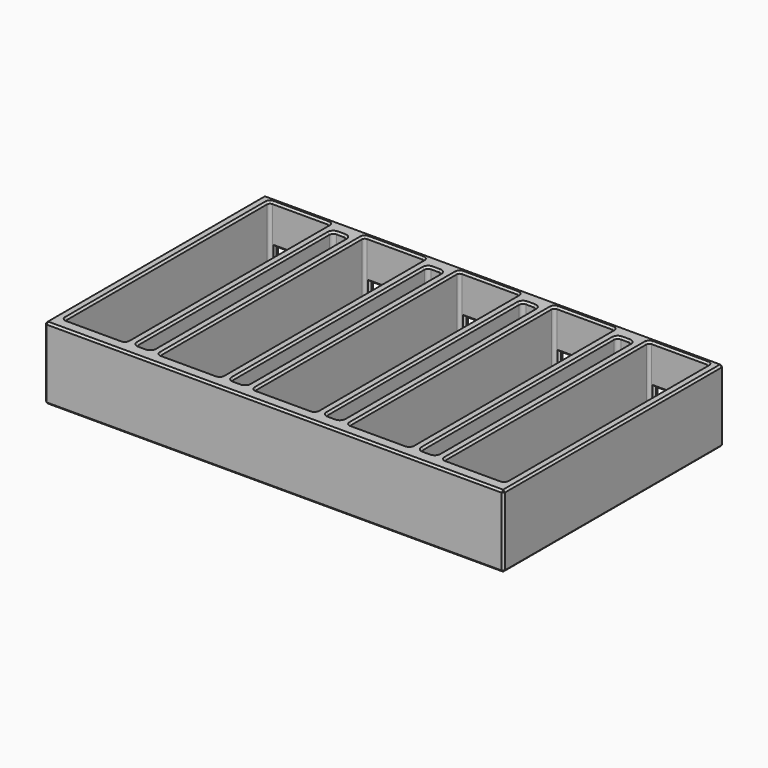
from build123d import *

# Parameters (mm, degrees)
F0_W      = 242
F0_H      = 145
F1_DEPTH  = 38.1
F2_W      = 32
F2_H      = 135
F3_DEPTH  = 31.75
F4_W      = 26
F4_H      = 11
F5_DEPTH  = 3
F7_DEPTH  = 38.101
F8_R      = 1.5
F10_DEPTH = 6.351
F11_SIZE  = 1


with BuildPart() as f1:
    # F0 (on Top) → F1 (new body)
    with BuildSketch(Plane.XY):
        Rectangle(F0_W, F0_H)
    extrude(amount=F1_DEPTH)

    # F2 (on face) → F3 (cut)
    with BuildSketch(Plane.XY.offset(38.1)):
        with Locations((-100, 2)):
            Rectangle(F2_W, F2_H)
        with Locations((-50, 2)):
            Rectangle(F2_W, F2_H)
        with Locations((0, 2)):
            Rectangle(F2_W, F2_H)
        with Locations((50, 2)):
            Rectangle(F2_W, F2_H)
        with Locations((100, 2)):
            Rectangle(F2_W, F2_H)
    extrude(amount=-F3_DEPTH, mode=Mode.SUBTRACT)

    # F4 (on face) → F5 (cut, through all)
    with BuildSketch(Plane(origin=(0, 72.5, 0), x_dir=(-1, 0, 0), z_dir=(0, 1, 0))):
        with Locations((100, 11.85)):
            Rectangle(F4_W, F4_H)
        with Locations((50, 11.85)):
            Rectangle(F4_W, F4_H)
        with Locations((0, 11.85)):
            Rectangle(F4_W, F4_H)
        with Locations((-50, 11.85)):
            Rectangle(F4_W, F4_H)
        with Locations((-100, 11.85)):
            Rectangle(F4_W, F4_H)
    extrude(amount=-F5_DEPTH, mode=Mode.SUBTRACT)

    # F6 (on face) → F7 (cut, through all)
    with BuildSketch(Plane.XY.offset(38.1)):
        with BuildLine():
            Line((-73, 64.85), (-77, 64.85))
            ThreePointArc((-77, 64.85), (-78.4142135624, 64.2642135624), (-79, 62.85))
            Line((-79, 62.85), (-79, -62.85))
            ThreePointArc((-79, -62.85), (-78.4142135624, -64.2642135624), (-77, -64.85))
            Line((-77, -64.85), (-73, -64.85))
            ThreePointArc((-73, -64.85), (-71.5857864376, -64.2642135624), (-71, -62.85))
            Line((-71, -62.85), (-71, 62.85))
            ThreePointArc((-71, 62.85), (-71.5857864376, 64.2642135624), (-73, 64.85))
        make_face()
        with BuildLine():
            ThreePointArc((23, 64.85), (21.5857864376, 64.2642135624), (21, 62.85))
            Line((21, 62.85), (21, -62.85))
            ThreePointArc((21, -62.85), (21.5857864376, -64.2642135624), (23, -64.85))
            Line((23, -64.85), (27, -64.85))
            ThreePointArc((27, -64.85), (28.4142135624, -64.2642135624), (29, -62.85))
            Line((29, -62.85), (29, 62.85))
            ThreePointArc((29, 62.85), (28.4142135624, 64.2642135624), (27, 64.85))
            Line((27, 64.85), (23, 64.85))
        make_face()
        with BuildLine():
            ThreePointArc((73, 64.85), (71.5857864376, 64.2642135624), (71, 62.85))
            Line((71, 62.85), (71, -62.85))
            ThreePointArc((71, -62.85), (71.5857864376, -64.2642135624), (73, -64.85))
            Line((73, -64.85), (77, -64.85))
            ThreePointArc((77, -64.85), (78.4142135624, -64.2642135624), (79, -62.85))
            Line((79, -62.85), (79, 62.85))
            ThreePointArc((79, 62.85), (78.4142135624, 64.2642135624), (77, 64.85))
            Line((77, 64.85), (73, 64.85))
        make_face()
        with BuildLine():
            ThreePointArc((-27, 64.85), (-28.4142135624, 64.2642135624), (-29, 62.85))
            Line((-29, 62.85), (-29, -62.85))
            ThreePointArc((-29, -62.85), (-28.4142135624, -64.2642135624), (-27, -64.85))
            Line((-27, -64.85), (-23, -64.85))
            ThreePointArc((-23, -64.85), (-21.5857864376, -64.2642135624), (-21, -62.85))
            Line((-21, -62.85), (-21, 62.85))
            ThreePointArc((-21, 62.85), (-21.5857864376, 64.2642135624), (-23, 64.85))
            Line((-23, 64.85), (-27, 64.85))
        make_face()
    extrude(amount=-F7_DEPTH, mode=Mode.SUBTRACT)

    # F8
    f8_edges = [f1.edges().sort_by_distance(p)[0] for p in [
        (-116, 69.5, 22.225),
        (-84, 69.5, 22.225),
        (-116, -65.5, 22.225),
        (-84, -65.5, 22.225),
        (-66, -65.5, 22.225),
        (-66, 69.5, 22.225),
        (-34, 69.5, 22.225),
        (-34, -65.5, 22.225),
        (-16, 69.5, 22.225),
        (16, 69.5, 22.225),
        (-16, -65.5, 22.225),
        (16, -65.5, 22.225),
        (34, 69.5, 22.225),
        (34, -65.5, 22.225),
        (66, -65.5, 22.225),
        (66, 69.5, 22.225),
        (84, 69.5, 22.225),
        (116, 69.5, 22.225),
        (84, -65.5, 22.225),
        (116, -65.5, 22.225),
    ]]
    fillet(f8_edges, radius=F8_R)

    # F9 (on face) → F10 (cut, through all)
    with BuildSketch(Plane.XY.offset(6.35)):
        with BuildLine():
            Line((-105, 54.5), (-109, 54.5))
            ThreePointArc((-109, 54.5), (-110.4142135624, 53.9142135624), (-111, 52.5))
            Line((-111, 52.5), (-111, -48.5))
            ThreePointArc((-111, -48.5), (-110.4142135624, -49.9142135624), (-109, -50.5))
            Line((-109, -50.5), (-105, -50.5))
            ThreePointArc((-105, -50.5), (-103.5857864376, -49.9142135624), (-103, -48.5))
            Line((-103, -48.5), (-103, 52.5))
            ThreePointArc((-103, 52.5), (-103.5857864376, 53.9142135624), (-105, 54.5))
        make_face()
        with BuildLine():
            Line((-91, 54.5), (-95, 54.5))
            ThreePointArc((-95, 54.5), (-96.4142135624, 53.9142135624), (-97, 52.5))
            Line((-97, 52.5), (-97, -48.5))
            ThreePointArc((-97, -48.5), (-96.4142135624, -49.9142135624), (-95, -50.5))
            Line((-95, -50.5), (-91, -50.5))
            ThreePointArc((-91, -50.5), (-89.5857864376, -49.9142135624), (-89, -48.5))
            Line((-89, -48.5), (-89, 52.5))
            ThreePointArc((-89, 52.5), (-89.5857864376, 53.9142135624), (-91, 54.5))
        make_face()
        with BuildLine():
            ThreePointArc((-45, 54.5), (-46.4142135624, 53.9142135624), (-47, 52.5))
            Line((-47, 52.5), (-47, -48.5))
            ThreePointArc((-47, -48.5), (-46.4142135624, -49.9142135624), (-45, -50.5))
            Line((-45, -50.5), (-41, -50.5))
            ThreePointArc((-41, -50.5), (-39.5857864376, -49.9142135624), (-39, -48.5))
            Line((-39, -48.5), (-39, 52.5))
            ThreePointArc((-39, 52.5), (-39.5857864376, 53.9142135624), (-41, 54.5))
            Line((-41, 54.5), (-45, 54.5))
        make_face()
        with BuildLine():
            Line((-53, -48.5), (-53, 52.5))
            ThreePointArc((-53, 52.5), (-53.5857864376, 53.9142135624), (-55, 54.5))
            Line((-55, 54.5), (-59, 54.5))
            ThreePointArc((-59, 54.5), (-60.4142135624, 53.9142135624), (-61, 52.5))
            Line((-61, 52.5), (-61, -48.5))
            ThreePointArc((-61, -48.5), (-60.4142135624, -49.9142135624), (-59, -50.5))
            Line((-59, -50.5), (-55, -50.5))
            ThreePointArc((-55, -50.5), (-53.5857864376, -49.9142135624), (-53, -48.5))
        make_face()
        with BuildLine():
            ThreePointArc((5, 54.5), (3.5857864376, 53.9142135624), (3, 52.5))
            Line((3, 52.5), (3, -48.5))
            ThreePointArc((3, -48.5), (3.5857864376, -49.9142135624), (5, -50.5))
            Line((5, -50.5), (9, -50.5))
            ThreePointArc((9, -50.5), (10.4142135624, -49.9142135624), (11, -48.5))
            Line((11, -48.5), (11, 52.5))
            ThreePointArc((11, 52.5), (10.4142135624, 53.9142135624), (9, 54.5))
            Line((9, 54.5), (5, 54.5))
        make_face()
        with BuildLine():
            Line((-3, -48.5), (-3, 52.5))
            ThreePointArc((-3, 52.5), (-3.5857864376, 53.9142135624), (-5, 54.5))
            Line((-5, 54.5), (-9, 54.5))
            ThreePointArc((-9, 54.5), (-10.4142135624, 53.9142135624), (-11, 52.5))
            Line((-11, 52.5), (-11, -48.5))
            ThreePointArc((-11, -48.5), (-10.4142135624, -49.9142135624), (-9, -50.5))
            Line((-9, -50.5), (-5, -50.5))
            ThreePointArc((-5, -50.5), (-3.5857864376, -49.9142135624), (-3, -48.5))
        make_face()
        with BuildLine():
            ThreePointArc((55, 54.5), (53.5857864376, 53.9142135624), (53, 52.5))
            Line((53, 52.5), (53, -48.5))
            ThreePointArc((53, -48.5), (53.5857864376, -49.9142135624), (55, -50.5))
            Line((55, -50.5), (59, -50.5))
            ThreePointArc((59, -50.5), (60.4142135624, -49.9142135624), (61, -48.5))
            Line((61, -48.5), (61, 52.5))
            ThreePointArc((61, 52.5), (60.4142135624, 53.9142135624), (59, 54.5))
            Line((59, 54.5), (55, 54.5))
        make_face()
        with BuildLine():
            Line((47, -48.5), (47, 52.5))
            ThreePointArc((47, 52.5), (46.4142135624, 53.9142135624), (45, 54.5))
            Line((45, 54.5), (41, 54.5))
            ThreePointArc((41, 54.5), (39.5857864376, 53.9142135624), (39, 52.5))
            Line((39, 52.5), (39, -48.5))
            ThreePointArc((39, -48.5), (39.5857864376, -49.9142135624), (41, -50.5))
            Line((41, -50.5), (45, -50.5))
            ThreePointArc((45, -50.5), (46.4142135624, -49.9142135624), (47, -48.5))
        make_face()
        with BuildLine():
            ThreePointArc((105, 54.5), (103.5857864376, 53.9142135624), (103, 52.5))
            Line((103, 52.5), (103, -48.5))
            ThreePointArc((103, -48.5), (103.5857864376, -49.9142135624), (105, -50.5))
            Line((105, -50.5), (109, -50.5))
            ThreePointArc((109, -50.5), (110.4142135624, -49.9142135624), (111, -48.5))
            Line((111, -48.5), (111, 52.5))
            ThreePointArc((111, 52.5), (110.4142135624, 53.9142135624), (109, 54.5))
            Line((109, 54.5), (105, 54.5))
        make_face()
        with BuildLine():
            Line((97, -48.5), (97, 52.5))
            ThreePointArc((97, 52.5), (96.4142135624, 53.9142135624), (95, 54.5))
            Line((95, 54.5), (91, 54.5))
            ThreePointArc((91, 54.5), (89.5857864376, 53.9142135624), (89, 52.5))
            Line((89, 52.5), (89, -48.5))
            ThreePointArc((89, -48.5), (89.5857864376, -49.9142135624), (91, -50.5))
            Line((91, -50.5), (95, -50.5))
            ThreePointArc((95, -50.5), (96.4142135624, -49.9142135624), (97, -48.5))
        make_face()
    extrude(amount=-F10_DEPTH, mode=Mode.SUBTRACT)

    # F11
    f11_edges = [f1.edges().sort_by_distance(p)[0] for p in [
        (-100, 69.5, 38.1),
        (-84, 2, 38.1),
        (-116, 2, 38.1),
        (-100, -65.5, 38.1),
        (-84.43934, 69.06066, 38.1),
        (-115.56066, 69.06066, 38.1),
        (-84.43934, -65.06066, 38.1),
        (-115.56066, -65.06066, 38.1),
        (0, -72.5, 38.1),
        (-121, 0, 38.1),
        (121, 0, 38.1),
        (0, 72.5, 38.1),
        (-75, 64.85, 38.1),
        (-78.414214, 64.264214, 38.1),
        (-79, 0, 38.1),
        (-78.414214, -64.264214, 38.1),
        (-75, -64.85, 38.1),
        (-71.585786, -64.264214, 38.1),
        (-71, 0, 38.1),
        (-71.585786, 64.264214, 38.1),
        (-21.585786, 64.264214, 38.1),
        (-25, 64.85, 38.1),
        (-28.414214, 64.264214, 38.1),
        (-29, 0, 38.1),
        (-28.414214, -64.264214, 38.1),
        (-25, -64.85, 38.1),
        (-21.585786, -64.264214, 38.1),
        (-21, 0, 38.1),
        (28.414214, 64.264214, 38.1),
        (25, 64.85, 38.1),
        (21.585786, 64.264214, 38.1),
        (21, 0, 38.1),
        (21.585786, -64.264214, 38.1),
        (25, -64.85, 38.1),
        (28.414214, -64.264214, 38.1),
        (29, 0, 38.1),
        (71.585786, 64.264214, 38.1),
        (71, 0, 38.1),
        (71.585786, -64.264214, 38.1),
        (75, -64.85, 38.1),
        (78.414214, -64.264214, 38.1),
        (79, 0, 38.1),
        (78.414214, 64.264214, 38.1),
        (75, 64.85, 38.1),
        (-34, 2, 38.1),
        (-34.43934, -65.06066, 38.1),
        (-34.43934, 69.06066, 38.1),
        (-50, -65.5, 38.1),
        (-50, 69.5, 38.1),
        (-65.56066, -65.06066, 38.1),
        (-65.56066, 69.06066, 38.1),
        (-66, 2, 38.1),
        (16, 2, 38.1),
        (15.56066, -65.06066, 38.1),
        (15.56066, 69.06066, 38.1),
        (0, -65.5, 38.1),
        (0, 69.5, 38.1),
        (-15.56066, -65.06066, 38.1),
        (-15.56066, 69.06066, 38.1),
        (-16, 2, 38.1),
        (66, 2, 38.1),
        (65.56066, -65.06066, 38.1),
        (65.56066, 69.06066, 38.1),
        (50, -65.5, 38.1),
        (50, 69.5, 38.1),
        (34.43934, -65.06066, 38.1),
        (34.43934, 69.06066, 38.1),
        (34, 2, 38.1),
        (116, 2, 38.1),
        (115.56066, -65.06066, 38.1),
        (115.56066, 69.06066, 38.1),
        (100, -65.5, 38.1),
        (100, 69.5, 38.1),
        (84.43934, -65.06066, 38.1),
        (84.43934, 69.06066, 38.1),
        (84, 2, 38.1),
        (-121, -72.5, 19.05),
        (121, -72.5, 19.05),
        (0, -72.5, 0),
        (121, 72.5, 19.05),
        (0, 72.5, 0),
        (-121, 72.5, 19.05),
        (87, 72.5, 11.85),
        (100, 72.5, 6.35),
        (113, 72.5, 11.85),
        (100, 72.5, 17.35),
        (37, 72.5, 11.85),
        (50, 72.5, 6.35),
        (63, 72.5, 11.85),
        (50, 72.5, 17.35),
        (-13, 72.5, 11.85),
        (0, 72.5, 6.35),
        (13, 72.5, 11.85),
        (0, 72.5, 17.35),
        (-63, 72.5, 11.85),
        (-50, 72.5, 6.35),
        (-37, 72.5, 11.85),
        (-50, 72.5, 17.35),
        (-100, 72.5, 17.35),
        (-113, 72.5, 11.85),
        (-100, 72.5, 6.35),
        (-87, 72.5, 11.85),
        (121, 0, 0),
        (-121, 0, 0),
        (-107, 54.5, 0),
        (-110.414214, 53.914214, 0),
        (-111, 2, 0),
        (-110.414214, -49.914214, 0),
        (-107, -50.5, 0),
        (-103.585786, -49.914214, 0),
        (-103, 2, 0),
        (-103.585786, 53.914214, 0),
        (-93, 54.5, 0),
        (-96.414214, 53.914214, 0),
        (-97, 2, 0),
        (-96.414214, -49.914214, 0),
        (-93, -50.5, 0),
        (-89.585786, -49.914214, 0),
        (-89, 2, 0),
        (-89.585786, 53.914214, 0),
        (-75, 64.85, 0),
        (-71.585786, 64.264214, 0),
        (-78.414214, 64.264214, 0),
        (-71, 0, 0),
        (-79, 0, 0),
        (-71.585786, -64.264214, 0),
        (-78.414214, -64.264214, 0),
        (-75, -64.85, 0),
        (-53, 2, 0),
        (-53.585786, 53.914214, 0),
        (-57, 54.5, 0),
        (-60.414214, 53.914214, 0),
        (-61, 2, 0),
        (-60.414214, -49.914214, 0),
        (-57, -50.5, 0),
        (-53.585786, -49.914214, 0),
        (-46.414214, 53.914214, 0),
        (-47, 2, 0),
        (-46.414214, -49.914214, 0),
        (-43, -50.5, 0),
        (-39.585786, -49.914214, 0),
        (-39, 2, 0),
        (-39.585786, 53.914214, 0),
        (-43, 54.5, 0),
        (-21.585786, 64.264214, 0),
        (-21, 0, 0),
        (-25, 64.85, 0),
        (-21.585786, -64.264214, 0),
        (-28.414214, 64.264214, 0),
        (-25, -64.85, 0),
        (-29, 0, 0),
        (-28.414214, -64.264214, 0),
        (-3, 2, 0),
        (-3.585786, 53.914214, 0),
        (-7, 54.5, 0),
        (-10.414214, 53.914214, 0),
        (-11, 2, 0),
        (-10.414214, -49.914214, 0),
        (-7, -50.5, 0),
        (-3.585786, -49.914214, 0),
        (10.414214, 53.914214, 0),
        (7, 54.5, 0),
        (3.585786, 53.914214, 0),
        (3, 2, 0),
        (3.585786, -49.914214, 0),
        (7, -50.5, 0),
        (10.414214, -49.914214, 0),
        (11, 2, 0),
        (28.414214, 64.264214, 0),
        (29, 0, 0),
        (25, 64.85, 0),
        (28.414214, -64.264214, 0),
        (21.585786, 64.264214, 0),
        (25, -64.85, 0),
        (21, 0, 0),
        (21.585786, -64.264214, 0),
        (47, 2, 0),
        (46.414214, 53.914214, 0),
        (43, 54.5, 0),
        (39.585786, 53.914214, 0),
        (39, 2, 0),
        (39.585786, -49.914214, 0),
        (43, -50.5, 0),
        (46.414214, -49.914214, 0),
        (53.585786, 53.914214, 0),
        (53, 2, 0),
        (53.585786, -49.914214, 0),
        (57, -50.5, 0),
        (60.414214, -49.914214, 0),
        (61, 2, 0),
        (60.414214, 53.914214, 0),
        (57, 54.5, 0),
        (71.585786, 64.264214, 0),
        (75, 64.85, 0),
        (71, 0, 0),
        (78.414214, 64.264214, 0),
        (71.585786, -64.264214, 0),
        (79, 0, 0),
        (75, -64.85, 0),
        (78.414214, -64.264214, 0),
        (97, 2, 0),
        (96.414214, 53.914214, 0),
        (93, 54.5, 0),
        (89.585786, 53.914214, 0),
        (89, 2, 0),
        (89.585786, -49.914214, 0),
        (93, -50.5, 0),
        (96.414214, -49.914214, 0),
        (103.585786, 53.914214, 0),
        (103, 2, 0),
        (103.585786, -49.914214, 0),
        (107, -50.5, 0),
        (110.414214, -49.914214, 0),
        (111, 2, 0),
        (110.414214, 53.914214, 0),
        (107, 54.5, 0),
        (-86.25, 69.5, 6.35),
        (-84.43934, 69.06066, 6.35),
        (-87, 71, 6.35),
        (-84, 2, 6.35),
        (-84.43934, -65.06066, 6.35),
        (-113, 71, 6.35),
        (-100, -65.5, 6.35),
        (-113.75, 69.5, 6.35),
        (-115.56066, -65.06066, 6.35),
        (-115.56066, 69.06066, 6.35),
        (-116, 2, 6.35),
        (-89.585786, 53.914214, 6.35),
        (-89, 2, 6.35),
        (-89.585786, -49.914214, 6.35),
        (-93, -50.5, 6.35),
        (-96.414214, -49.914214, 6.35),
        (-97, 2, 6.35),
        (-96.414214, 53.914214, 6.35),
        (-93, 54.5, 6.35),
        (-103.585786, 53.914214, 6.35),
        (-103, 2, 6.35),
        (-103.585786, -49.914214, 6.35),
        (-107, -50.5, 6.35),
        (-110.414214, -49.914214, 6.35),
        (-111, 2, 6.35),
        (-110.414214, 53.914214, 6.35),
        (-107, 54.5, 6.35),
        (-36.25, 69.5, 6.35),
        (-34.43934, 69.06066, 6.35),
        (-37, 71, 6.35),
        (-34, 2, 6.35),
        (-34.43934, -65.06066, 6.35),
        (-63, 71, 6.35),
        (-50, -65.5, 6.35),
        (-63.75, 69.5, 6.35),
        (-65.56066, -65.06066, 6.35),
        (-65.56066, 69.06066, 6.35),
        (-66, 2, 6.35),
        (-43, 54.5, 6.35),
        (-39.585786, 53.914214, 6.35),
        (-39, 2, 6.35),
        (-39.585786, -49.914214, 6.35),
        (-43, -50.5, 6.35),
        (-46.414214, -49.914214, 6.35),
        (-47, 2, 6.35),
        (-46.414214, 53.914214, 6.35),
        (-53.585786, -49.914214, 6.35),
        (-57, -50.5, 6.35),
        (-60.414214, -49.914214, 6.35),
        (-61, 2, 6.35),
        (-60.414214, 53.914214, 6.35),
        (-57, 54.5, 6.35),
        (-53.585786, 53.914214, 6.35),
        (-53, 2, 6.35),
        (13.75, 69.5, 6.35),
        (15.56066, 69.06066, 6.35),
        (13, 71, 6.35),
        (16, 2, 6.35),
        (15.56066, -65.06066, 6.35),
        (-13, 71, 6.35),
        (0, -65.5, 6.35),
        (-13.75, 69.5, 6.35),
        (-15.56066, -65.06066, 6.35),
        (-15.56066, 69.06066, 6.35),
        (-16, 2, 6.35),
        (11, 2, 6.35),
        (10.414214, -49.914214, 6.35),
        (7, -50.5, 6.35),
        (3.585786, -49.914214, 6.35),
        (3, 2, 6.35),
        (3.585786, 53.914214, 6.35),
        (7, 54.5, 6.35),
        (10.414214, 53.914214, 6.35),
        (-3.585786, -49.914214, 6.35),
        (-7, -50.5, 6.35),
        (-10.414214, -49.914214, 6.35),
        (-11, 2, 6.35),
        (-10.414214, 53.914214, 6.35),
        (-7, 54.5, 6.35),
        (-3.585786, 53.914214, 6.35),
        (-3, 2, 6.35),
        (63.75, 69.5, 6.35),
        (65.56066, 69.06066, 6.35),
        (63, 71, 6.35),
        (66, 2, 6.35),
        (65.56066, -65.06066, 6.35),
        (37, 71, 6.35),
        (50, -65.5, 6.35),
        (36.25, 69.5, 6.35),
        (34.43934, -65.06066, 6.35),
        (34.43934, 69.06066, 6.35),
        (34, 2, 6.35),
        (57, 54.5, 6.35),
        (60.414214, 53.914214, 6.35),
        (61, 2, 6.35),
        (60.414214, -49.914214, 6.35),
        (57, -50.5, 6.35),
        (53.585786, -49.914214, 6.35),
        (53, 2, 6.35),
        (53.585786, 53.914214, 6.35),
        (46.414214, -49.914214, 6.35),
        (43, -50.5, 6.35),
        (39.585786, -49.914214, 6.35),
        (39, 2, 6.35),
        (39.585786, 53.914214, 6.35),
        (43, 54.5, 6.35),
        (46.414214, 53.914214, 6.35),
        (47, 2, 6.35),
        (113.75, 69.5, 6.35),
        (115.56066, 69.06066, 6.35),
        (113, 71, 6.35),
        (116, 2, 6.35),
        (115.56066, -65.06066, 6.35),
        (87, 71, 6.35),
        (100, -65.5, 6.35),
        (86.25, 69.5, 6.35),
        (84.43934, -65.06066, 6.35),
        (84.43934, 69.06066, 6.35),
        (84, 2, 6.35),
        (107, 54.5, 6.35),
        (110.414214, 53.914214, 6.35),
        (111, 2, 6.35),
        (110.414214, -49.914214, 6.35),
        (107, -50.5, 6.35),
        (103.585786, -49.914214, 6.35),
        (103, 2, 6.35),
        (103.585786, 53.914214, 6.35),
        (96.414214, -49.914214, 6.35),
        (93, -50.5, 6.35),
        (89.585786, -49.914214, 6.35),
        (89, 2, 6.35),
        (89.585786, 53.914214, 6.35),
        (93, 54.5, 6.35),
        (96.414214, 53.914214, 6.35),
        (97, 2, 6.35),
        (-85.5, 69.5, 22.225),
        (-114.5, 69.5, 22.225),
        (-87, 69.5, 11.85),
        (-113, 69.5, 11.85),
        (-100, 69.5, 17.35),
        (-35.5, 69.5, 22.225),
        (-64.5, 69.5, 22.225),
        (-37, 69.5, 11.85),
        (-63, 69.5, 11.85),
        (-50, 69.5, 17.35),
        (14.5, 69.5, 22.225),
        (-14.5, 69.5, 22.225),
        (13, 69.5, 11.85),
        (-13, 69.5, 11.85),
        (0, 69.5, 17.35),
        (64.5, 69.5, 22.225),
        (35.5, 69.5, 22.225),
        (63, 69.5, 11.85),
        (37, 69.5, 11.85),
        (50, 69.5, 17.35),
        (114.5, 69.5, 22.225),
        (85.5, 69.5, 22.225),
        (113, 69.5, 11.85),
        (87, 69.5, 11.85),
        (100, 69.5, 17.35),
    ]]
    chamfer(f11_edges, length=F11_SIZE)


solid = f1.part
